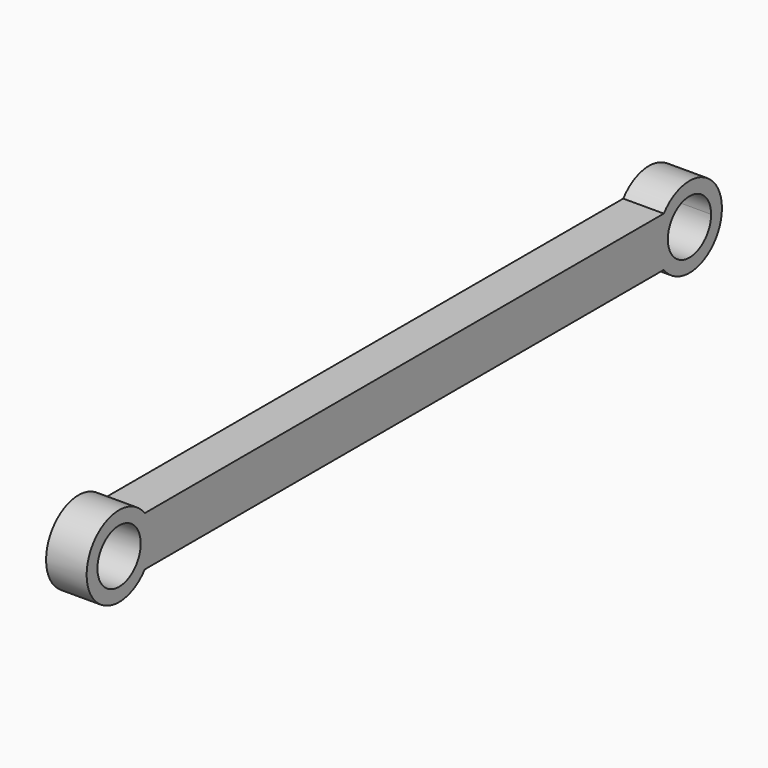
from build123d import *

# Parameters (mm, degrees)
F0_R     = 6.35
F1_DEPTH = 9.525


with BuildPart() as f1:
    # F0 (on Right) → F1 (new body)
    with BuildSketch(Plane.YZ):
        with BuildLine():
            ThreePointArc((7.543108, 5.816111), (-9.525, 0), (7.543108, -5.816111))
            Line((7.543108, -5.816111), (159.943108, -5.816111))
            ThreePointArc((159.943108, -5.816111), (177.011215, 0), (159.943108, 5.816111))
            Line((159.943108, 5.816111), (150.060477, 5.816111))
            Line((150.060477, 5.816111), (7.543108, 5.816111))
        make_face()
        Circle(F0_R, mode=Mode.SUBTRACT)
        with BuildLine():
            ThreePointArc((164.937618, -5.816111), (164.012104, 5.31536), (173.836215, 0))
            ThreePointArc((173.836215, 0), (170.960327, -5.31536), (164.937618, -5.816111))
        make_face(mode=Mode.SUBTRACT)
    extrude(amount=F1_DEPTH)


solid = f1.part
